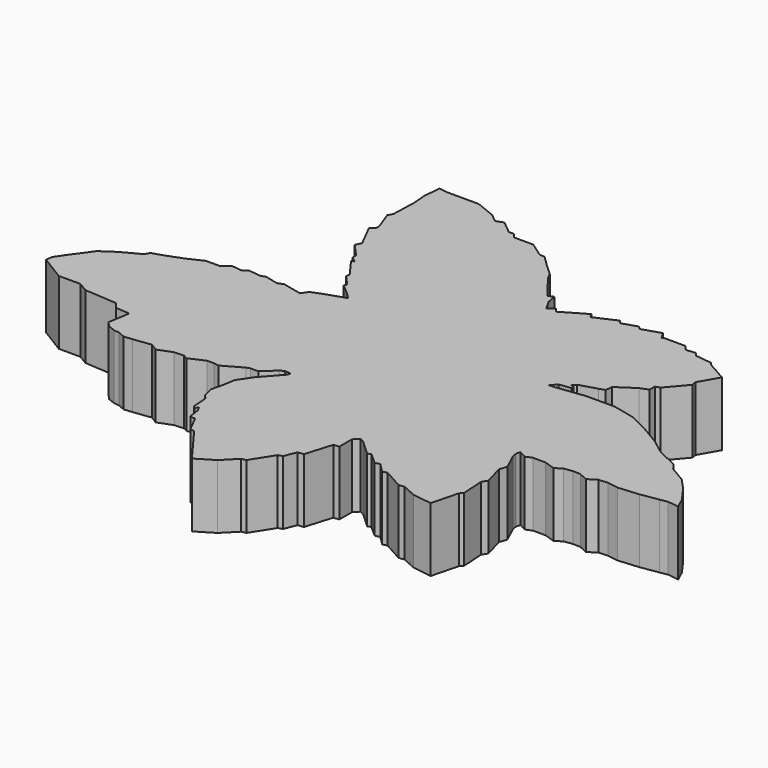
from build123d import *

# Parameters (mm, degrees)
PAD_DEPTH = 3


with BuildPart() as part:
    # Sketch → Pad (new body)
    with BuildSketch(Plane.XY):
        Polygon((-14.939734, -2.922455), (-13.774887, -3.637247), (-12.768883, -3.637247), (-12.318829, -3.901985), (-10.80982, -4.007881), (-10.571555, -4.299093), (-9.90971, -4.35204), (-10.072753, -5.358993), (-9.846, -5.602241), (-9.516561, -5.730218), (-9.249311, -5.762288), (-8.928614, -5.901257), (-8.543776, -5.863842), (-7.717882, -5.75845), (-7.372913, -5.972569), (-6.724874, -5.720376), (-6.270657, -5.694814), (-6.062229, -5.804927), (-5.350893, -5.48914), (-5.024015, -5.48914), (-4.801264, -5.531317), (-3.911384, -5.028331), (-3.751908, -4.972515), (-3.377141, -4.972515), (-2.818976, -4.454219), (-2.627606, -4.342587), (-2.34055, -4.382455), (-2.380419, -4.518009), (-3.185771, -5.42702), (-3.613178, -6.058241), (-3.711104, -6.645795), (-3.835143, -7.155008), (-3.758777, -7.508761), (-3.705962, -7.68135), (-3.53967, -7.852018), (-3.48159, -8.612411), (-3.390192, -8.697279), (-3.272681, -8.566711), (-3.168228, -8.769092), (-3.102943, -9.252192), (-3.070875, -9.320832), (-2.842071, -9.3355), (-2.45193, -10.098182), (-2.249525, -10.130449), (-0.96042, -11.875302), (-0.153326, -11.388908), (0.461347, -10.768889), (0.669802, -10.72613), (1.317242, -9.709977), (1.518256, -9.650808), (1.740221, -9.089367), (2.020942, -9.043669), (2.393061, -7.803274), (2.654196, -7.77716), (2.654196, -7.039452), (2.869633, -6.817487), (3.091598, -6.928469), (3.796664, -7.57478), (3.933761, -7.502968), (4.462561, -7.973012), (4.684525, -7.920785), (5.115399, -8.34513), (5.324308, -8.286375), (6.23668, -8.795643), (6.503619, -8.766309), (7.148016, -9.05537), (8.048827, -9.186133), (8.36847, -7.936621), (8.499233, -7.791329), (8.434769, -6.722055), (8.586207, -6.479883), (8.322964, -5.531781), (8.439835, -5.190909), (8.074257, -4.393068), (8.042361, -4.177775), (8.090203, -3.994378), (8.433077, -4.169801), (8.720134, -4.050195), (9.318169, -4.050195), (9.820518, -4.217644), (10.132314, -4.01453), (10.517489, -3.962302), (10.88308, -3.975359), (11.28784, -4.158154), (11.686072, -3.910075), (12.103889, -3.883962), (12.600047, -3.962302), (13.579306, -3.877433), (14.388827, -3.746865), (14.754416, -3.681581), (15.276689, -3.753394), (15.04319, -3.241373), (14.520919, -2.516721), (14.037817, -1.994449), (13.280153, -1.546255), (13.043842, -1.231174), (12.107354, -0.797939), (11.380431, -0.250878), (10.439567, 0.304889), (9.595256, 0.727998), (8.536237, 0.97306), (7.198999, 0.97306), (5.779317, 0.795578), (5.601857, 0.795578), (5.832556, 1.061768), (6.382682, 1.132752), (6.382682, 1.256974), (6.217128, 1.313004), (6.379044, 1.466169), (7.179873, 1.706855), (7.446816, 1.794377), (7.490577, 2.126962), (8.300576, 2.668386), (8.685751, 2.818538), (8.685751, 3.125373), (8.89508, 3.18684), (9.665339, 4.09369), (9.626381, 4.327431), (10.14256, 5.22344), (9.197855, 5.759098), (9.110202, 5.875968), (8.321324, 5.973361), (8.205314, 6.140254), (7.756333, 6.097494), (7.718918, 6.134909), (7.563913, 6.332674), (6.521637, 6.332674), (6.468188, 6.295259), (6.270422, 6.610614), (5.404532, 6.332674), (5.270907, 6.471644), (4.569418, 6.247245), (4.441608, 6.406517), (3.419502, 5.945882), (3.291921, 6.153201), (2.15964, 5.491375), (2.000163, 5.698694), (1.729054, 5.475427), (1.462387, 5.951866), (1.39073, 6.378227), (1.139929, 6.274324), (0.283337, 7.378708), (0.126706, 7.681261), (-0.415308, 8.181635), (-0.872658, 8.623701), (-1.120738, 8.643287), (-1.793164, 9.119861), (-2.570046, 9.119861), (-2.713213, 9.138457), (-2.884254, 9.341568), (-3.119434, 9.341568), (-3.707386, 9.827964), (-4.049155, 9.7003), (-4.429878, 10.011006), (-5.35895, 10.384472), (-6.811876, 10.384472), (-7.238399, 10.440728), (-7.307884, 9.63363), (-7.254434, 9.008263), (-7.292966, 7.811763), (-7.411118, 7.604196), (-7.092165, 6.743021), (-7.100138, 6.559623), (-7.29151, 6.384199), (-6.741315, 5.299757), (-6.87495, 5.027319), (-6.315858, 4.420645), (-6.303963, 4.194629), (-6.054155, 4.0043), (-6.185007, 3.956717), (-5.542647, 3.076445), (-5.578333, 2.909907), (-5.126302, 2.410293), (-5.185779, 2.267546), (-4.733747, 1.898783), (-4.424462, 1.589498), (-5.31663, 1.292109), (-5.840036, 1.089884), (-6.04226, 0.792495), (-6.946324, 0.994719), (-7.196131, 0.887659), (-7.814701, 1.042302), (-8.02502, 0.969153), (-8.602671, 1.030419), (-8.834605, 0.872878), (-9.333486, 0.929767), (-9.661695, 0.649695), (-10.324935, 0.649695), (-11.010686, 0.32425), (-11.728333, 0.053139), (-12.297134, -0.13161), (-12.421175, -0.347049), (-13.295985, -0.817096), (-13.922715, -1.241445), (-14.170795, -1.59398), (-14.53862, -2.09216), (-14.897443, -2.618434), align=None)
    extrude(amount=PAD_DEPTH)


solid = part.part
